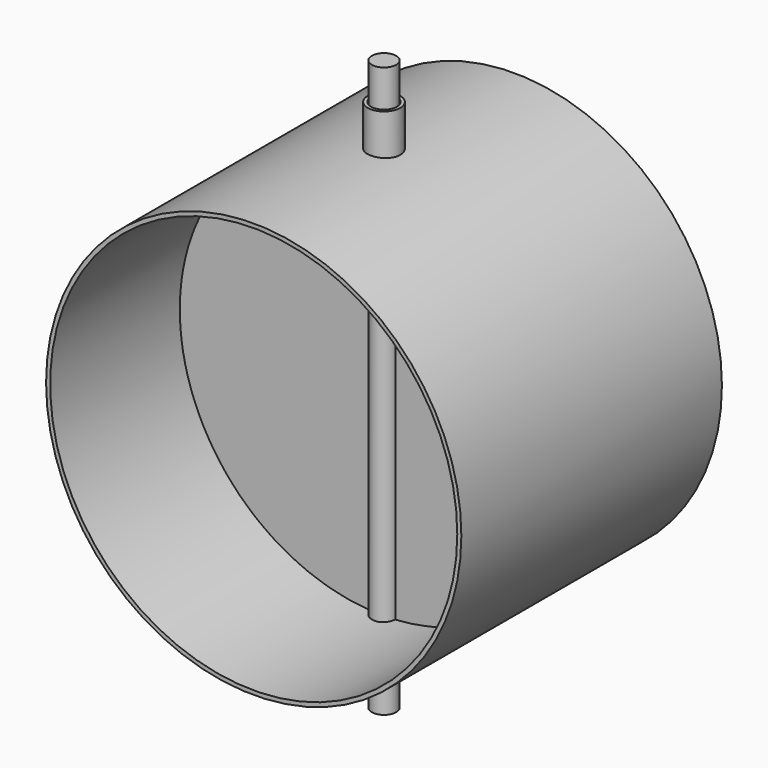
from build123d import *

# Parameters (mm, degrees)
F0_R     = 250
F1_DEPTH = 1.25
F2_R     = 15
F3_DEPTH = 350
F4_R     = 255
F4_R_2   = 250
F5_DEPTH = 200
F7_R     = 20
F7_R_2   = 16


with BuildPart() as f1:
    # F0 (on Front) → F1 (new body, symmetric)
    with BuildSketch(Plane.XZ):
        Circle(F0_R)
    extrude(amount=F1_DEPTH, both=True)

    # F2 (on Top) → F3 (join, symmetric)
    with BuildSketch(Plane.XY):
        Circle(F2_R)
    extrude(amount=F3_DEPTH, both=True)


with BuildPart() as f5:
    # F4 (on Front) → F5 (new body, symmetric)
    with BuildSketch(Plane.XZ):
        Circle(F4_R)
        Circle(F4_R_2, mode=Mode.SUBTRACT)
    extrude(amount=F5_DEPTH, both=True)


with BuildPart() as f8:
    # F7 (on offset) → F8 (new body, up to the next surface of F5)
    with BuildSketch(Plane.XY.offset(305)):
        Circle(F7_R)
        Circle(F7_R_2, mode=Mode.SUBTRACT)
    extrude(until=Until.NEXT, target=f5.part, dir=(0, 0, -1))


with BuildPart() as f9_1:
    # F9: instance of F8
    add(f8.part.mirror(Plane.XY))


solid = Compound([f1.part, f5.part, f8.part, f9_1.part])
